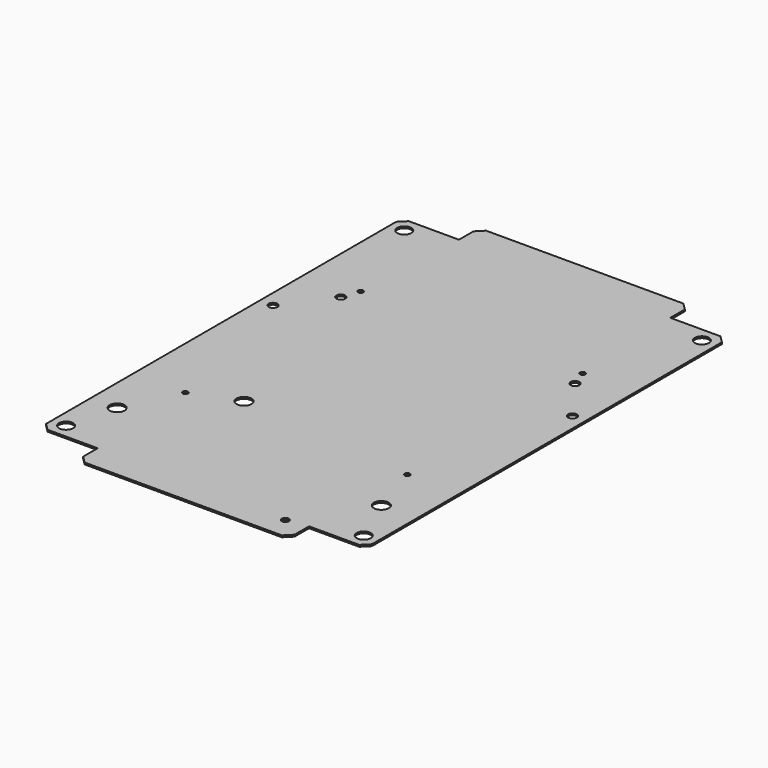
from build123d import *

# Parameters (mm, degrees)
F0_R     = 4
F0_R_2   = 4.25
F0_R_3   = 1.5
F0_R_4   = 2
F0_R_5   = 2.5
F1_DEPTH = 0.5
F2_SIZE  = 4


with BuildPart() as f1:
    # F0 (on Top) → F1 (new body, symmetric)
    with BuildSketch(Plane.XY):
        Polygon((-92.5, 128.2), (-92.5, 0), (-92.5, -128.2), (-60, -128.2), (-60, -142.5), (0, -142.5), (60, -142.5), (60, -128.2), (92.5, -128.2), (92.5, 0), (92.5, 128.2), (60, 128.2), (60, 142.5), (0, 142.5), (-60, 142.5), (-60, 128.2), align=None)
        with Locations((-84.5, -120)):
            Circle(F0_R, mode=Mode.SUBTRACT)
        with Locations((-77.5, -92.5)):
            Circle(F0_R_2, mode=Mode.SUBTRACT)
        with Locations((-63, -62.2)):
            Circle(F0_R_3, mode=Mode.SUBTRACT)
        with Locations((-37.5, -52.5)):
            Circle(F0_R_2, mode=Mode.SUBTRACT)
        with Locations((48, -130)):
            Circle(F0_R_4, mode=Mode.SUBTRACT)
        with Locations((84.5, -120)):
            Circle(F0_R, mode=Mode.SUBTRACT)
        with Locations((72.5, -92.5)):
            Circle(F0_R_2, mode=Mode.SUBTRACT)
        with Locations((63, -62.2)):
            Circle(F0_R_3, mode=Mode.SUBTRACT)
        with Locations((-85, 27.5)):
            Circle(F0_R_5, mode=Mode.SUBTRACT)
        with Locations((-66.5, 52.5)):
            Circle(F0_R_5, mode=Mode.SUBTRACT)
        with Locations((-63, 62.2)):
            Circle(F0_R_3, mode=Mode.SUBTRACT)
        with Locations((-84.5, 120)):
            Circle(F0_R, mode=Mode.SUBTRACT)
        with Locations((85, 27.5)):
            Circle(F0_R_5, mode=Mode.SUBTRACT)
        with Locations((66.5, 52.5)):
            Circle(F0_R_5, mode=Mode.SUBTRACT)
        with Locations((63, 62.2)):
            Circle(F0_R_3, mode=Mode.SUBTRACT)
        with Locations((84.5, 120)):
            Circle(F0_R, mode=Mode.SUBTRACT)
    extrude(amount=F1_DEPTH, both=True)

    # F2
    f2_edges = [f1.edges().sort_by_distance(p)[0] for p in [
        (-92.5, 128.2, 0),
        (-60, 142.5, 0),
        (60, 142.5, 0),
        (92.5, 128.2, 0),
        (92.5, -128.2, 0),
        (60, -142.5, 0),
        (-60, -142.5, 0),
        (-92.5, -128.2, 0),
    ]]
    chamfer(f2_edges, length=F2_SIZE)


solid = f1.part
